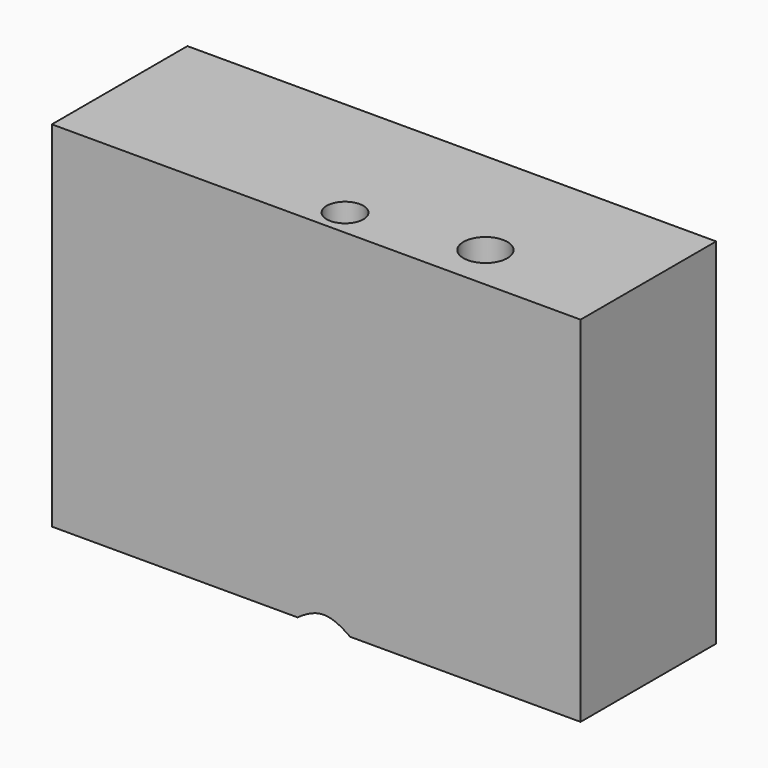
from build123d import *

# Parameters (mm, degrees)
F0_W           = 79.2516134679
F0_H           = 53.0872028321
F1_DEPTH       = 12.7
F3_D           = 5.5
F3_CSINK_D     = 11.2
F3_CSINK_ANGLE = 90
F5_D           = 6.6
F5_CBORE_D     = 11.25
F5_CBORE_DEPTH = 6


with BuildPart() as f1:
    # F0 (on Front) → F1 (new body, symmetric)
    with BuildSketch(Plane.XZ):
        with Locations((17.8221333772, -9.2902602628)):
            Rectangle(F0_W, F0_H)
    extrude(amount=F1_DEPTH, both=True)

    # F3 (through all)
    with Locations(Plane(origin=(0, 0, -35.8338616788), x_dir=(1, 0, 0), z_dir=(0, 0, -1))):
        with Locations((18.9597140998, 8.7214689702)):
            CounterSinkHole(F3_D / 2, F3_CSINK_D / 2, counter_sink_angle=F3_CSINK_ANGLE)

    # F5 (through all)
    with Locations(Plane(origin=(0, 0, -35.8338616788), x_dir=(1, 0, 0), z_dir=(0, 0, -1))):
        with Locations((37.7298332751, 5.8775120415)):
            CounterBoreHole(F5_D / 2, F5_CBORE_D / 2, F5_CBORE_DEPTH)


solid = f1.part
